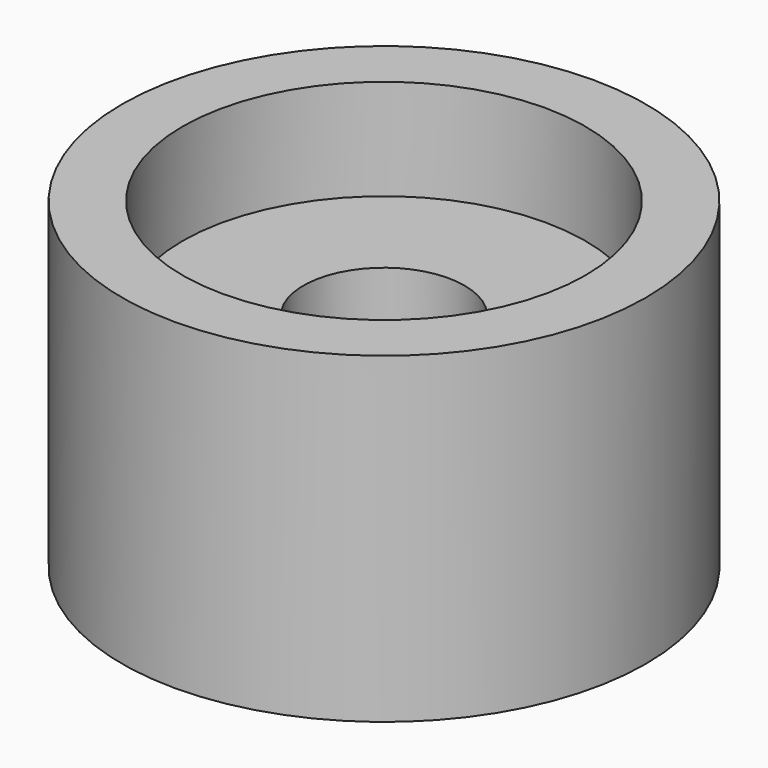
from build123d import *

# Parameters (mm, degrees)
F0_R     = 41.275
F0_R_2   = 31.75
F1_DEPTH = 15.875
F2_R     = 41.275
F3_DEPTH = 34.925
F4_R     = 12.7
F5_DEPTH = 50.8


with BuildPart() as f1:
    # F0 (on Top) → F1 (new body)
    with BuildSketch(Plane.XY):
        Circle(F0_R)
        Circle(F0_R_2, mode=Mode.SUBTRACT)
    extrude(amount=F1_DEPTH)

    # F2 (on face) → F3 (join)
    with BuildSketch(Plane.XY):
        Circle(F2_R)
    extrude(amount=-F3_DEPTH)

    # F4 (on face) → F5 (cut)
    with BuildSketch(Plane(origin=(0, 0, -34.925), x_dir=(1, 0, 0), z_dir=(0, 0, -1))):
        Circle(F4_R)
    extrude(amount=-F5_DEPTH, mode=Mode.SUBTRACT)


solid = f1.part
